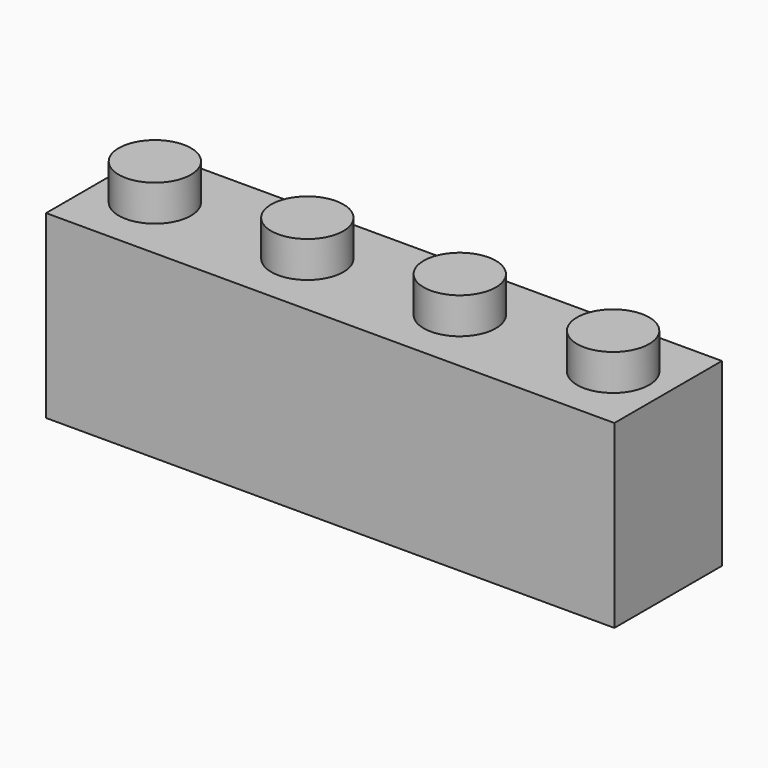
from build123d import *

# Parameters (mm, degrees)
F0_W     = 31.5
F0_H     = 7.45
F0_R     = 2
F1_DEPTH = 10
F2_DEPTH = 12
F3_R     = 1.5
F4_DEPTH = 9


with BuildPart() as f1:
    # F0 (on Top) → F1 (new body)
    with BuildSketch(Plane.XY):
        Rectangle(F0_W, F0_H)
        with Locations((-12.7, 0)):
            Circle(F0_R, mode=Mode.SUBTRACT)
        with Locations((-4.25, 0)):
            Circle(F0_R, mode=Mode.SUBTRACT)
        with Locations((4.2, 0)):
            Circle(F0_R, mode=Mode.SUBTRACT)
        with Locations((12.7, 0)):
            Circle(F0_R, mode=Mode.SUBTRACT)
    extrude(amount=F1_DEPTH)

    # F0 (on Top) → F2 (join)
    with BuildSketch(Plane.XY):
        with Locations((-12.7, 0)):
            Circle(F0_R)
        with Locations((-4.25, 0)):
            Circle(F0_R)
        with Locations((4.2, 0)):
            Circle(F0_R)
        with Locations((12.7, 0)):
            Circle(F0_R)
    extrude(amount=F2_DEPTH)

    # F3 (on face) → F4 (cut)
    with BuildSketch(Plane(origin=(0, 0, 0), x_dir=(1, 0, 0), z_dir=(0, 0, -1))):
        with BuildLine():
            Line((14.15, -2.125), (14.15, 2.125))
            Line((14.15, 2.125), (0.5, 2.125))
            Line((0.5, 2.125), (0.5, 1.414214))
            ThreePointArc((0.5, 1.414214), (1.224745, 0.866025), (1.5, 0))
            ThreePointArc((1.5, 0), (1.224745, -0.866025), (0.5, -1.414214))
            Line((0.5, -1.414214), (0.5, -2.125))
            Line((0.5, -2.125), (14.15, -2.125))
        make_face()
        with Locations((8, 0)):
            Circle(F3_R, mode=Mode.SUBTRACT)
        with BuildLine():
            Line((-0.5, 1.414214), (-0.5, 2.125))
            Line((-0.5, 2.125), (-14.15, 2.125))
            Line((-14.15, 2.125), (-14.15, -2.125))
            Line((-14.15, -2.125), (-0.5, -2.125))
            Line((-0.5, -2.125), (-0.5, -1.414214))
            ThreePointArc((-0.5, -1.414214), (-1.5, 0), (-0.5, 1.414214))
        make_face()
        with Locations((-8, 0)):
            Circle(F3_R, mode=Mode.SUBTRACT)
    extrude(amount=-F4_DEPTH, mode=Mode.SUBTRACT)


solid = f1.part
